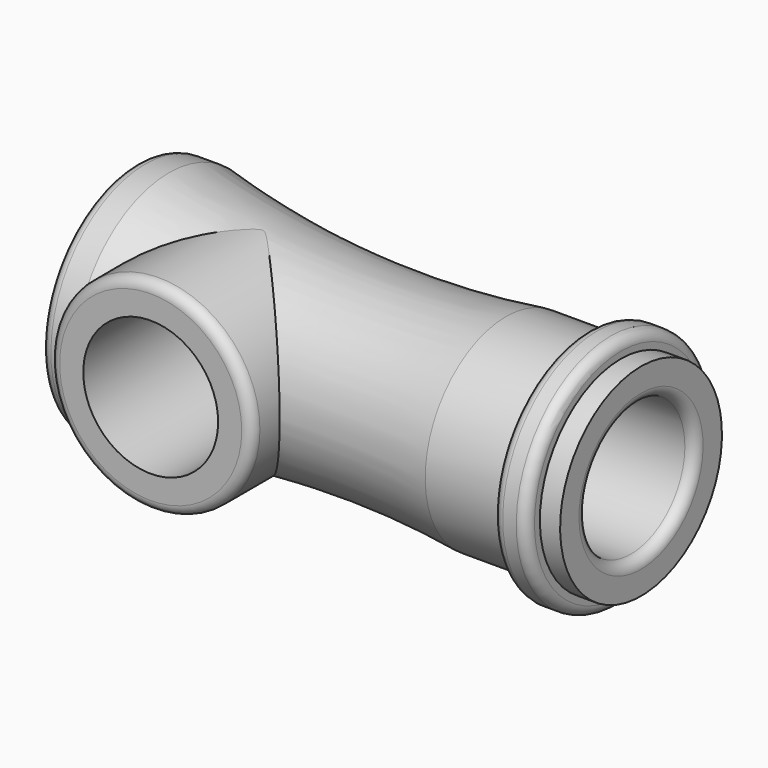
from build123d import *

# Parameters (mm, degrees)
F2_R     = 15
F3_DEPTH = 19
F4_R     = 10
F5_DEPTH = 25
F6_R     = 1.5


with BuildPart() as f1:
    # F0 (on Front) → F1 (revolve)
    with BuildSketch(Plane.XZ):
        with BuildLine():
            Line((0, 17.5), (0, 0))
            Line((0, 0), (60, 0))
            Line((60, 0), (60, 10))
            Line((60, 10), (75, 10))
            Line((75, 10), (75, 15))
            Line((75, 15), (72, 15))
            Line((72, 15), (72, 17.5))
            Line((72, 17.5), (67, 17.5))
            Line((67, 17.5), (67, 15))
            Line((67, 15), (55, 15))
            ThreePointArc((55, 15), (29.885634, 13.962679), (5, 17.5))
            Line((5, 17.5), (0, 17.5))
        make_face()
    revolve(axis=Axis((30, 0, 0), (1, 0, 0)))

    # F2 (on Front) → F3 (join)
    with BuildSketch(Plane.XZ):
        with Locations((17.5, 0)):
            Circle(F2_R)
    extrude(amount=F3_DEPTH)

    # F4 (on face) → F5 (cut)
    with BuildSketch(Plane.XZ.offset(19)):
        with Locations((17.5, 0)):
            Circle(F4_R)
    extrude(amount=-F5_DEPTH, mode=Mode.SUBTRACT)

    # F6
    f6_edges = [f1.edges().sort_by_distance(p)[0] for p in [
        (0, 0, -17.5),
        (2.5, -19, 0),
        (75, 0, -10),
        (67, 0, -17.5),
        (72, 0, -17.5),
    ]]
    fillet(f6_edges, radius=F6_R)


solid = f1.part
